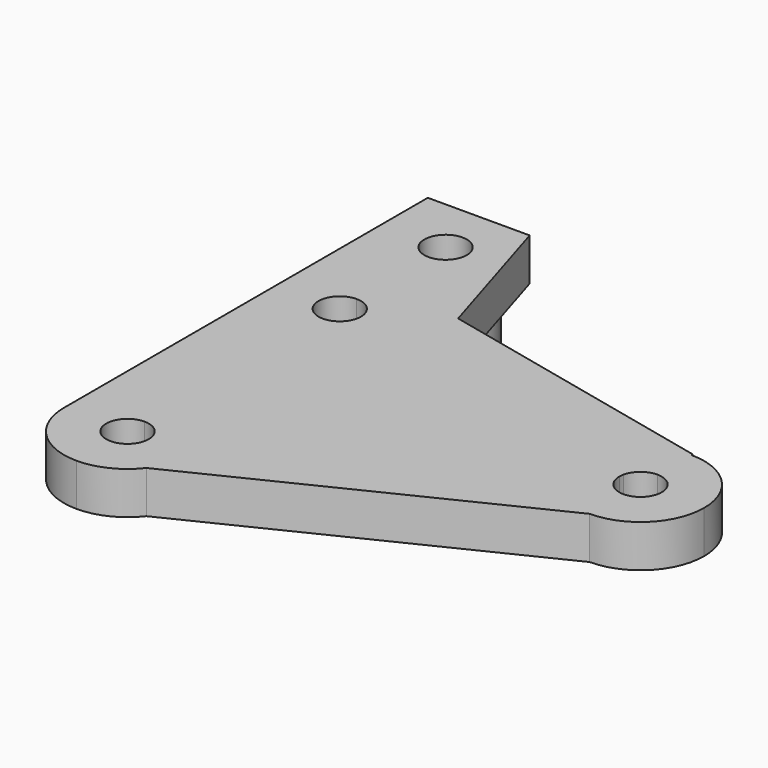
from build123d import *

# Parameters (mm, degrees)
F1_DEPTH = 6.35
F2_R     = 3.175
F3_DEPTH = 12.7
F4_R     = 6.4822420389
F5_DEPTH = 6.35


with BuildPart() as f1:
    # F0 (on Top) → F1 (new body)
    with BuildSketch(Plane.XY):
        with BuildLine():
            Line((0, -17.430102046), (0, 0))
            Line((0, 0), (0, 3.216402))
            ThreePointArc((0, 3.216402), (-6.7351920908, 6.0062099092), (-9.525, 12.741402))
            Line((-9.525, 12.741402), (-9.525, -26.955102046))
            ThreePointArc((-9.525, -26.955102046), (-6.7351920908, -20.2199099552), (0, -17.430102046))
        make_face()
        with BuildLine():
            ThreePointArc((-9.525, 12.741402), (-6.7351920908, 6.0062099092), (0, 3.216402))
            Line((0, 3.216402), (0, 9.566402))
            ThreePointArc((0, 9.566402), (-3.175, 12.741402), (0, 15.916402))
            Line((0, 15.916402), (0, 22.266402))
            ThreePointArc((0, 22.266402), (-6.7351920908, 19.4765940908), (-9.525, 12.741402))
        make_face()
        with BuildLine():
            Line((0, -23.780102046), (0, -17.430102046))
            ThreePointArc((0, -17.430102046), (-6.7351920908, -20.2199099552), (-9.525, -26.955102046))
            ThreePointArc((-9.525, -26.955102046), (-6.7351920908, -33.6902941368), (0, -36.480102046))
            Line((0, -36.480102046), (7.5123847033, -32.8108429103))
            ThreePointArc((7.5123847033, -32.8108429103), (9.007804652, -30.0510801387), (9.525, -26.955102046))
            ThreePointArc((9.525, -26.955102046), (9.2802728088, -24.809837122), (8.5586668568, -22.7748093967))
            Line((8.5586668568, -22.7748093967), (2.8528889523, -25.5616711629))
            ThreePointArc((2.8528889523, -25.5616711629), (3.0934242696, -26.240013738), (3.175, -26.955102046))
            ThreePointArc((3.175, -26.955102046), (-2.2450640303, -29.2001660763), (0, -23.780102046))
        make_face()
        with BuildLine():
            ThreePointArc((9.525, 12.741402), (9.463768469, 11.6631110537), (9.2808611307, 10.5986837096))
            Line((9.2808611307, 10.5986837096), (45.9066000969, 2.1427182904))
            ThreePointArc((45.9066000969, 2.1427182904), (49.2580332078, 7.4543617002), (55.1874612276, 9.525))
            Line((55.1874612276, 9.525), (55.1874612276, 9.7662775009))
            Line((55.1874612276, 9.7662775009), (4.1043156247, 21.3367622748))
            ThreePointArc((4.1043156247, 21.3367622748), (8.0566503997, 17.8223477129), (9.525, 12.741402))
        make_face()
        with BuildLine():
            Line((3.0936203769, 12.0271625699), (9.2808611307, 10.5986837096))
            ThreePointArc((9.2808611307, 10.5986837096), (9.463768469, 11.6631110537), (9.525, 12.741402))
            ThreePointArc((9.525, 12.741402), (8.0566503997, 17.8223477129), (4.1043156247, 21.3367622748))
            Line((4.1043156247, 21.3367622748), (0, 22.266402))
            Line((0, 22.266402), (0, 15.916402))
            ThreePointArc((0, 15.916402), (2.2450640303, 14.9864660303), (3.175, 12.741402))
            ThreePointArc((3.175, 12.741402), (3.1545894897, 12.3819716846), (3.0936203769, 12.0271625699))
        make_face()
        with BuildLine():
            ThreePointArc((55.1874612276, 9.525), (49.2580332078, 7.4543617002), (45.9066000969, 2.1427182904))
            Line((45.9066000969, 2.1427182904), (52.0938408507, 0.7142394301))
            ThreePointArc((52.0938408507, 0.7142394301), (53.210985221, 2.4847872334), (55.1874612276, 3.175))
            Line((55.1874612276, 3.175), (55.1874612276, 9.525))
        make_face()
        with BuildLine():
            ThreePointArc((55.1874612276, -9.525), (50.1422487685, -8.0790752096), (46.6287943708, -4.1802926493))
            Line((46.6287943708, -4.1802926493), (8.5586668568, -22.7748093967))
            ThreePointArc((8.5586668568, -22.7748093967), (9.2802728088, -24.809837122), (9.525, -26.955102046))
            ThreePointArc((9.525, -26.955102046), (9.007804652, -30.0510801387), (7.5123847033, -32.8108429103))
            Line((7.5123847033, -32.8108429103), (55.1874612276, -9.525))
        make_face()
        with BuildLine():
            Line((52.3345722753, -1.3934308831), (46.6287943708, -4.1802926493))
            ThreePointArc((46.6287943708, -4.1802926493), (50.1422487685, -8.0790752096), (55.1874612276, -9.525))
            ThreePointArc((55.1874612276, -9.525), (61.9226533184, -6.7351920908), (64.7124612276, 0))
            ThreePointArc((64.7124612276, 0), (61.9226533184, 6.7351920908), (55.1874612276, 9.525))
            Line((55.1874612276, 9.525), (55.1874612276, 3.175))
            ThreePointArc((55.1874612276, 3.175), (57.4325252579, 2.2450640303), (58.3624612276, 0))
            ThreePointArc((58.3624612276, 0), (55.9025495356, -3.0934242696), (52.3345722753, -1.3934308831))
        make_face()
        with BuildLine():
            ThreePointArc((4.1043156247, 21.3367622748), (2.1041409628, 22.0310852997), (0, 22.266402))
            Line((0, 22.266402), (4.1043156247, 21.3367622748))
        make_face()
        with BuildLine():
            Line((7.5123847033, -32.8108429103), (0, -36.480102046))
            ThreePointArc((0, -36.480102046), (4.1802926493, -35.5137689028), (7.5123847033, -32.8108429103))
        make_face()
        with BuildLine():
            Line((0, 3.216402), (0, 0))
            Line((0, 0), (45.6624612276, 0))
            ThreePointArc((45.6624612276, 0), (45.7236927586, 1.0782909463), (45.9066000969, 2.1427182904))
            Line((45.9066000969, 2.1427182904), (9.2808611307, 10.5986837096))
            ThreePointArc((9.2808611307, 10.5986837096), (5.9294280198, 5.2870402998), (0, 3.216402))
        make_face()
        with BuildLine():
            Line((0, 9.566402), (0, 3.216402))
            ThreePointArc((0, 3.216402), (5.9294280198, 5.2870402998), (9.2808611307, 10.5986837096))
            Line((9.2808611307, 10.5986837096), (3.0936203769, 12.0271625699))
            ThreePointArc((3.0936203769, 12.0271625699), (1.9764760066, 10.2566147666), (0, 9.566402))
        make_face()
        with BuildLine():
            Line((45.6624612276, 0), (0, 0))
            Line((0, 0), (0, -17.430102046))
            ThreePointArc((0, -17.430102046), (5.0452124591, -18.8760268364), (8.5586668568, -22.7748093967))
            Line((8.5586668568, -22.7748093967), (46.6287943708, -4.1802926493))
            ThreePointArc((46.6287943708, -4.1802926493), (45.9071884188, -2.145264924), (45.6624612276, 0))
        make_face()
        with BuildLine():
            ThreePointArc((8.5586668568, -22.7748093967), (5.0452124591, -18.8760268364), (0, -17.430102046))
            Line((0, -17.430102046), (0, -23.780102046))
            ThreePointArc((0, -23.780102046), (1.6817374864, -24.2620769761), (2.8528889523, -25.5616711629))
            Line((2.8528889523, -25.5616711629), (8.5586668568, -22.7748093967))
        make_face()
        with BuildLine():
            Line((52.0124612276, 0), (45.6624612276, 0))
            ThreePointArc((45.6624612276, 0), (45.9071884188, -2.145264924), (46.6287943708, -4.1802926493))
            Line((46.6287943708, -4.1802926493), (52.3345722753, -1.3934308831))
            ThreePointArc((52.3345722753, -1.3934308831), (52.094036958, -0.715088308), (52.0124612276, 0))
        make_face()
        with BuildLine():
            ThreePointArc((45.9066000969, 2.1427182904), (45.7236927586, 1.0782909463), (45.6624612276, 0))
            Line((45.6624612276, 0), (52.0124612276, 0))
            ThreePointArc((52.0124612276, 0), (52.0328717379, 0.3594303154), (52.0938408507, 0.7142394301))
            Line((52.0938408507, 0.7142394301), (45.9066000969, 2.1427182904))
        make_face()
    extrude(amount=F1_DEPTH)

    # F2 (on face) → F3 (join)
    with BuildSketch(Plane.XY.offset(6.35)):
        with BuildLine():
            Line((-9.525, 41.1111302674), (-9.525, 12.741402))
            ThreePointArc((-9.525, 12.741402), (-5.0809457129, 20.7980523997), (4.1043156247, 21.3367622748))
            Line((4.1043156247, 21.3367622748), (12.3195811982, 19.4759801301))
            Line((12.3195811982, 19.4759801301), (5.7150009088, 41.1111302674))
            Line((5.7150009088, 41.1111302674), (-9.525, 41.1111302674))
        make_face()
        with Locations((-0.0769013266, 32.6290909023)):
            Circle(F2_R, mode=Mode.SUBTRACT)
    extrude(amount=-F3_DEPTH)

    # F4 (on face) → F5 (cut)
    with BuildSketch(Plane(origin=(0, 0, -6.35), x_dir=(1, 0, 0), z_dir=(0, 0, -1))):
        with BuildLine():
            Line((-9.525, -41.1111302674), (5.7150009088, -41.1111302674))
            Line((5.7150009088, -41.1111302674), (12.3195811982, -19.4759801301))
            Line((12.3195811982, -19.4759801301), (4.1043156247, -21.3367622748))
            ThreePointArc((4.1043156247, -21.3367622748), (-5.0809457129, -20.7980523997), (-9.525, -12.741402))
            Line((-9.525, -12.741402), (-9.525, -41.1111302674))
        make_face()
        with Locations((-0.0769013266, -32.6290909023)):
            Circle(F4_R, mode=Mode.SUBTRACT)
    extrude(amount=-F5_DEPTH, mode=Mode.SUBTRACT)


solid = f1.part
